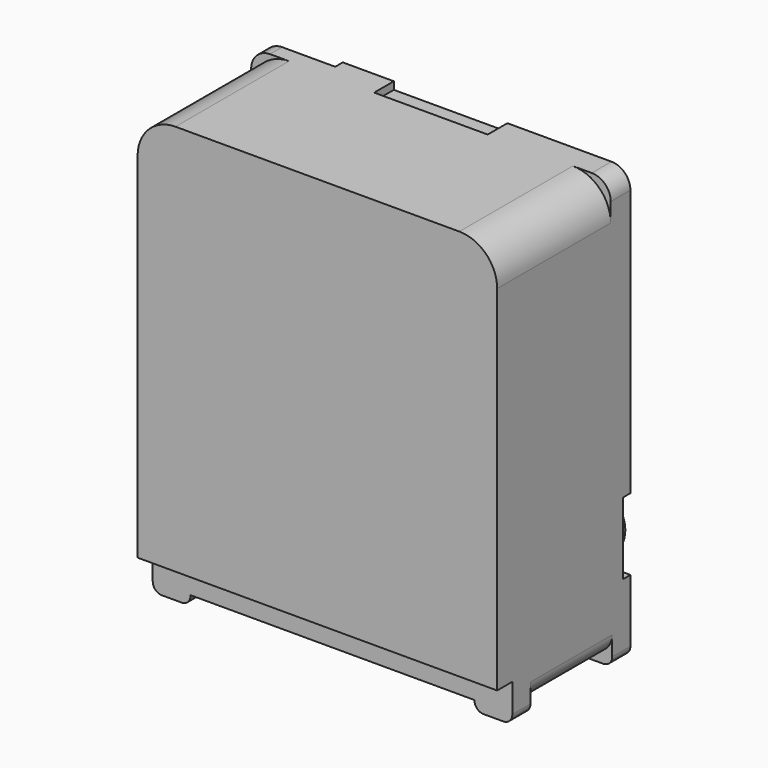
from build123d import *

# Parameters (mm, degrees)
SKETCH006_W     = 9.5
SKETCH006_H     = 11.1
PAD004_DEPTH    = 4.4
PAD005_DEPTH    = 0.15
POCKET002_DEPTH = 0.25
SKETCH009_R     = 0.8
PAD006_DEPTH    = 0.4
FILLET003_R     = 0.2
SKETCH010_W     = 1
SKETCH010_H     = 0.6
PAD007_DEPTH    = 0.25
FILLET004_R     = 0.24
SKETCH011_W     = 0.75
SKETCH011_H     = 0.5
POCKET003_DEPTH = 9.5
FILLET005_R     = 0.5
POCKET004_DEPTH = 3.75
FILLET006_R     = 0.5
SKETCH013_W     = 3
SKETCH013_H     = 0.65
POCKET005_DEPTH = 0.2


with BuildPart() as part:
    # Sketch006 → Pad004 (new body)
    with BuildSketch(Plane.XZ):
        with Locations((0, -0.7)):
            Rectangle(SKETCH006_W, SKETCH006_H)
    extrude(amount=-PAD004_DEPTH)

    # Sketch007 (on Face6 of Pad004) → Pad005 (join)
    with BuildSketch(Plane(origin=(0, 4.4, 0), x_dir=(1, 0, 0), z_dir=(0, 1, 0))):
        with BuildLine():
            Line((-4.05, 2), (-4.05, -2))
            ThreePointArc((-4.05, -2), (-3.903553, -2.353553), (-3.55, -2.5))
            Line((-3.55, -2.5), (3.55, -2.5))
            ThreePointArc((3.55, -2.5), (3.903553, -2.353553), (4.05, -2))
            Line((4.05, -2), (4.05, 2))
            ThreePointArc((4.05, 2), (3.903553, 2.353553), (3.55, 2.5))
            Line((3.55, 2.5), (-3.55, 2.5))
            ThreePointArc((-3.55, 2.5), (-3.903553, 2.353553), (-4.05, 2))
        make_face()
    extrude(amount=PAD005_DEPTH)

    # Sketch008 (on Face5 of Pad005) → Pocket002 (cut)
    with BuildSketch(Plane(origin=(0, 4.4, 0), x_dir=(1, 0, 0), z_dir=(0, 1, 0))):
        with BuildLine():
            Line((-3.8, -2.7), (-4.75, -2.7))
            Line((-4.75, -2.7), (-4.75, -4.85))
            Line((-4.75, -4.85), (-2.85, -4.85))
            Line((-2.85, -4.85), (-2.85, -3.65))
            ThreePointArc((-2.85, -3.65), (-3.128249, -2.978249), (-3.8, -2.7))
        make_face()
        with BuildLine():
            Line((3.8, 4.6), (4.75, 4.6))
            Line((4.75, 4.6), (4.75, 2.7))
            Line((4.75, 2.7), (3.8, 2.7))
            ThreePointArc((3.8, 4.6), (2.85, 3.65), (3.8, 2.7))
        make_face()
    extrude(amount=-POCKET002_DEPTH, mode=Mode.SUBTRACT)

    # Sketch009 (on Face22 of Pocket002) → Pad006 (join)
    with BuildSketch(Plane(origin=(0, 4.15, 0), x_dir=(1, 0, 0), z_dir=(0, 1, 0))):
        with Locations((3.8, 3.65)):
            Circle(SKETCH009_R)
        with Locations((-3.8, -3.65)):
            Circle(SKETCH009_R)
    extrude(amount=PAD006_DEPTH)

    # Fillet003
    fillet003_edges = [part.edges().sort_by_distance(p)[0] for p in [
        (3, 4.55, -3.65),
        (-4.6, 4.55, 3.65),
    ]]
    fillet(fillet003_edges, radius=FILLET003_R)

    # Sketch010 (on Face12 of Fillet003) → Pad007 (join)
    with BuildSketch(Plane(origin=(0, 0, -6.25), x_dir=(1, 0, 0), z_dir=(0, 0, -1))):
        with Locations((-4.25, -0.8)):
            Rectangle(SKETCH010_W, SKETCH010_H)
        with Locations((-4.25, -4.1)):
            Rectangle(SKETCH010_W, SKETCH010_H)
        with Locations((4.25, -0.8)):
            Rectangle(SKETCH010_W, SKETCH010_H)
        with Locations((4.25, -4.1)):
            Rectangle(SKETCH010_W, SKETCH010_H)
    extrude(amount=PAD007_DEPTH)

    # Fillet004
    fillet004_edges = [part.edges().sort_by_distance(p)[0] for p in [
        (4.75, 4.1, -6.5),
        (4.75, 0.8, -6.5),
        (3.75, 0.8, -6.5),
        (3.75, 4.1, -6.5),
        (-3.75, 0.8, -6.5),
        (-4.75, 0.8, -6.5),
        (-3.75, 4.1, -6.5),
        (-4.75, 4.1, -6.5),
    ]]
    fillet(fillet004_edges, radius=FILLET004_R)

    # Sketch011 (on Face16 of Fillet004) → Pocket003 (cut)
    with BuildSketch(Plane(origin=(4.75, 0, 0), x_dir=(0, 0, 1), z_dir=(1, 0, 0))):
        with Locations((-5.875, -0.25)):
            Rectangle(SKETCH011_W, SKETCH011_H)
    extrude(amount=-POCKET003_DEPTH, mode=Mode.SUBTRACT)

    # Fillet005
    fillet005_edges = [part.edges().sort_by_distance(p)[0] for p in [
        (4.75, 2.45, -6.25),
        (-4.75, 2.45, -6.25),
    ]]
    fillet(fillet005_edges, radius=FILLET005_R)

    # Sketch012 (on Face22 of Fillet005) → Pocket004 (cut)
    with BuildSketch(Plane.XZ):
        with BuildLine():
            Line((3.75, 4.85), (3.75, 5.85))
            Line((3.75, 5.85), (5.75, 5.85))
            Line((5.75, 5.85), (5.75, 3.85))
            Line((5.75, 3.85), (4.75, 3.85))
            ThreePointArc((4.75, 3.85), (4.457107, 4.557107), (3.75, 4.85))
        make_face()
        with BuildLine():
            ThreePointArc((-3.75, 4.85), (-4.457107, 4.557107), (-4.75, 3.85))
            Line((-5.75, 3.85), (-4.75, 3.85))
            Line((-5.75, 5.85), (-5.75, 3.85))
            Line((-3.75, 5.85), (-5.75, 5.85))
            Line((-3.75, 4.85), (-3.75, 5.85))
        make_face()
    extrude(amount=-POCKET004_DEPTH, mode=Mode.SUBTRACT)

    # Fillet006
    fillet006_edges = [part.edges().sort_by_distance(p)[0] for p in [
        (4.75, 4.075, 4.85),
        (-4.75, 3.95, 4.85),
    ]]
    fillet(fillet006_edges, radius=FILLET006_R)

    # Sketch013 (on Face16 of Fillet006) → Pocket005 (cut)
    with BuildSketch(Plane(origin=(0, 0, 4.85), x_dir=(-1, 0, 0), z_dir=(0, 0, 1))):
        with Locations((0, -4.075)):
            Rectangle(SKETCH013_W, SKETCH013_H)
    extrude(amount=-POCKET005_DEPTH, mode=Mode.SUBTRACT)


solid = part.part
